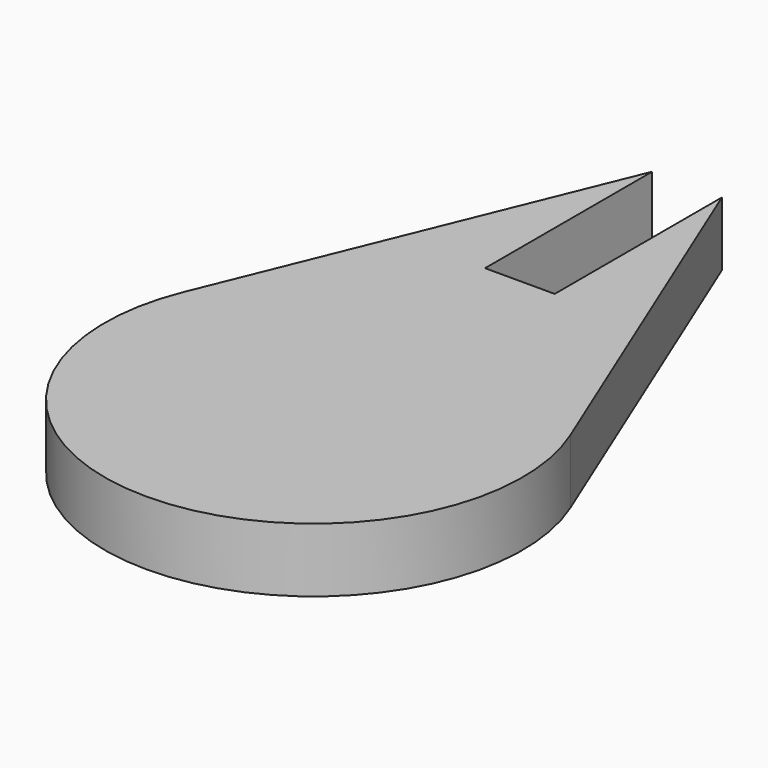
from build123d import *

# Parameters (mm, degrees)
F1_DEPTH = 2.3368


with BuildPart() as f1:
    # F0 (on Top) → F1 (new body)
    with BuildSketch(Plane.XY):
        with BuildLine():
            Line((-1.27, 17.018), (-7.052482, 2.885636))
            ThreePointArc((-7.052482, 2.885636), (0, -7.62), (7.052482, 2.885636))
            Line((7.052482, 2.885636), (1.27, 17.018))
            Line((1.27, 17.018), (1.27, 9.398))
            Line((1.27, 9.398), (-1.27, 9.398))
            Line((-1.27, 9.398), (-1.27, 17.018))
        make_face()
    extrude(amount=F1_DEPTH)


solid = f1.part
